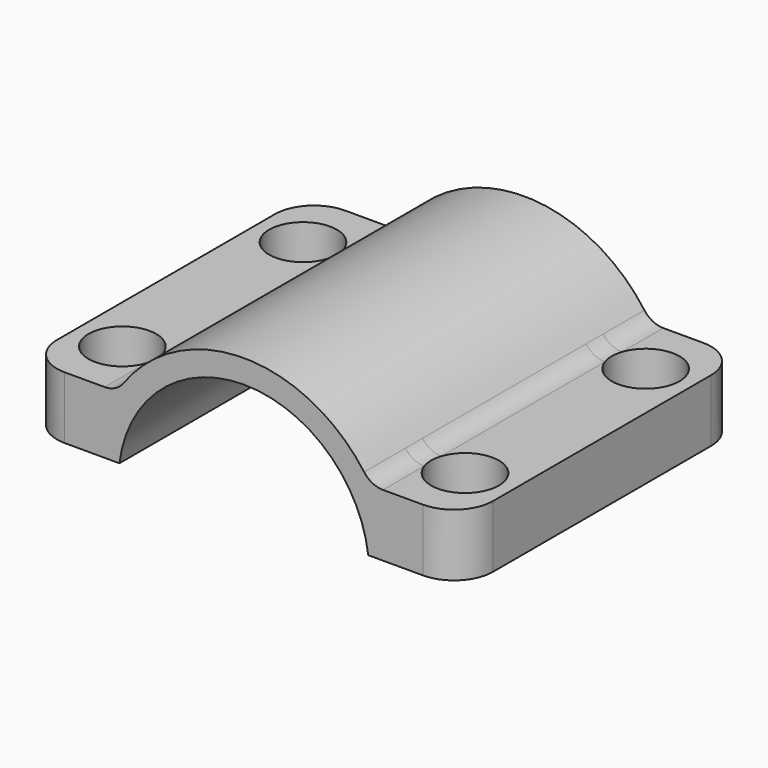
from build123d import *

# Parameters (mm, degrees)
F1_DEPTH = 45
F2_R     = 2.5
F2_R_2   = 4.35
F3_DEPTH = 5
F4_DEPTH = 8.001
F5_R     = 3
F6_R     = 5


with BuildPart() as f1:
    # F0 (on Front) → F1 (new body)
    with BuildSketch(Plane.XZ):
        with BuildLine():
            Line((-28, 10), (-28, 2))
            Line((-28, 2), (-15.975293, 2))
            ThreePointArc((-15.975293, 2), (0, 16.1), (15.975293, 2))
            Line((15.975293, 2), (28, 2))
            Line((28, 2), (28, 10))
            Line((28, 10), (16.272984, 10))
            ThreePointArc((16.272984, 10), (0, 19.1), (-16.272984, 10))
            Line((-16.272984, 10), (-28, 10))
        make_face()
    extrude(amount=F1_DEPTH)

    # F2 (on face) → F3 (cut)
    with BuildSketch(Plane.XY.offset(10)):
        with Locations((-22, -8)):
            Circle(F2_R)
        with Locations((-22, -8)):
            Circle(F2_R_2)
        with Locations((-22, -8)):
            Circle(F2_R, mode=Mode.SUBTRACT)
        with Locations((22, -8)):
            Circle(F2_R)
        with Locations((22, -8)):
            Circle(F2_R_2)
        with Locations((22, -8)):
            Circle(F2_R, mode=Mode.SUBTRACT)
        with Locations((22, -37)):
            Circle(F2_R)
        with Locations((22, -37)):
            Circle(F2_R_2)
        with Locations((22, -37)):
            Circle(F2_R, mode=Mode.SUBTRACT)
        with Locations((-22, -37)):
            Circle(F2_R)
        with Locations((-22, -37)):
            Circle(F2_R_2)
        with Locations((-22, -37)):
            Circle(F2_R, mode=Mode.SUBTRACT)
    extrude(amount=-F3_DEPTH, mode=Mode.SUBTRACT)

    # F2 (on face) → F4 (cut, through all)
    with BuildSketch(Plane.XY.offset(10)):
        with Locations((-22, -8)):
            Circle(F2_R)
        with Locations((22, -8)):
            Circle(F2_R)
        with Locations((-22, -37)):
            Circle(F2_R)
        with Locations((22, -37)):
            Circle(F2_R)
    extrude(amount=-F4_DEPTH, mode=Mode.SUBTRACT)

    # F5
    f5_edges = [f1.edges().sort_by_distance(p)[0] for p in [
        (-16.272984, -22.5, 10),
        (16.272984, -22.5, 10),
    ]]
    fillet(f5_edges, radius=F5_R)

    # F6
    f6_edges = [f1.edges().sort_by_distance(p)[0] for p in [
        (28, -45, 6),
        (28, 0, 6),
        (-28, -45, 6),
        (-28, 0, 6),
    ]]
    fillet(f6_edges, radius=F6_R)


solid = f1.part
